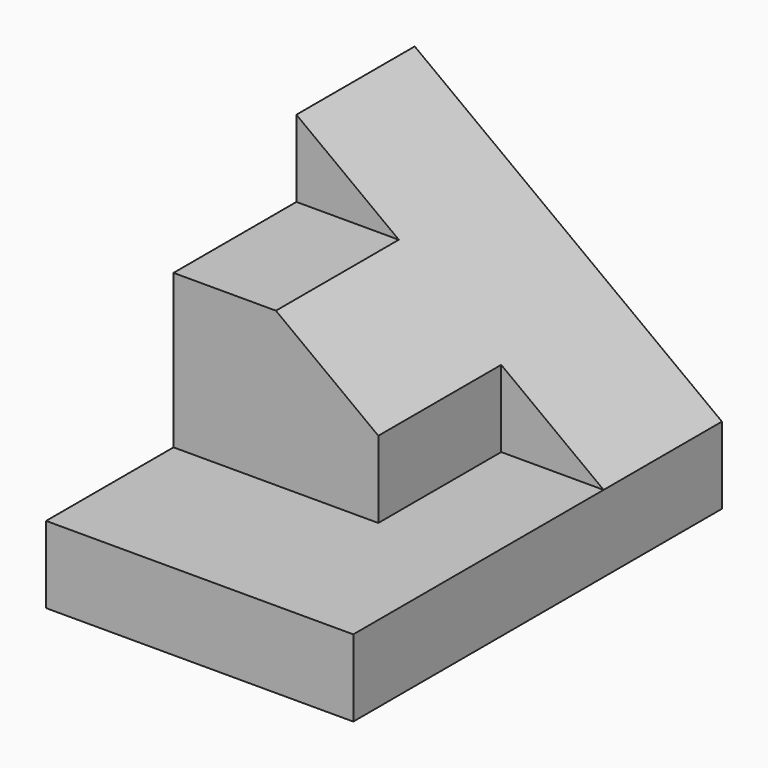
from build123d import *

# Parameters (mm, degrees)
F0_W     = 25.4
F0_H     = 6.35
F1_DEPTH = 19.05
F2_W     = 25.4
F2_H     = 24.928286
F3_DEPTH = 19.05
F4_W     = 12.7
F4_H     = 6.35
F5_DEPTH = 25.401
F7_DEPTH = 38.101
F8_W     = 16.933333
F8_H     = 6.35
F9_DEPTH = 12.7


with BuildPart() as f1:
    # F0 (on Front) → F1 (new body, symmetric)
    with BuildSketch(Plane.XZ):
        with Locations((12.7, 3.175)):
            Rectangle(F0_W, F0_H)
    extrude(amount=F1_DEPTH, both=True)

    # F2 (on face) → F3 (join)
    with BuildSketch(Plane.XY.offset(6.35)):
        with Locations((12.7, 6.585857)):
            Rectangle(F2_W, F2_H)
    extrude(amount=F3_DEPTH)

    # F4 (on face) → F5 (cut, through all)
    with BuildSketch(Plane.YZ.offset(25.4)):
        with Locations((0.471714, 22.225)):
            Rectangle(F4_W, F4_H)
        with Locations((0.471714, 9.525)):
            Rectangle(F4_W, F4_H)
    extrude(amount=-F5_DEPTH, mode=Mode.SUBTRACT)

    # F6 (on face) → F7 (cut, through all)
    with BuildSketch(Plane(origin=(0, 19.05, 0), x_dir=(-1, 0, 0), z_dir=(0, 1, 0))):
        Polygon((0, 25.4), (-25.4, 25.4), (-25.4, 6.35), align=None)
    extrude(amount=-F7_DEPTH, mode=Mode.SUBTRACT)

    # F8 (on face) → F9 (join)
    with BuildSketch(Plane.XZ.offset(-6.821714)):
        with Locations((8.466666, 9.525)):
            Rectangle(F8_W, F8_H)
    extrude(amount=F9_DEPTH)


solid = f1.part
